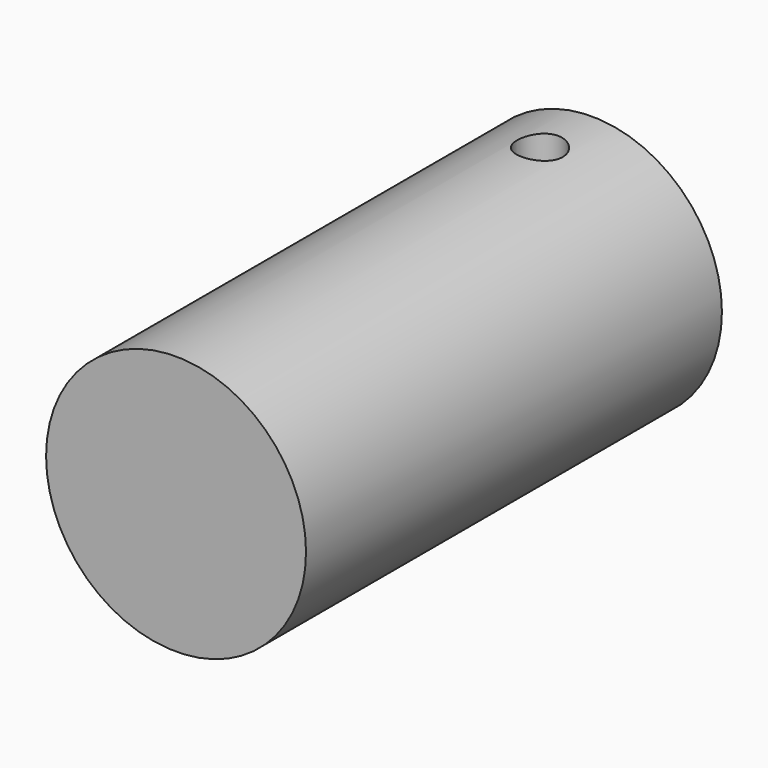
from build123d import *

# Parameters (mm, degrees)
F0_R     = 50
F1_DEPTH = 100
F6_D     = 17.5


with BuildPart() as f1:
    # F0 (on Front) → F1 (new body, symmetric)
    with BuildSketch(Plane.XZ):
        with Locations((135.255664587, 19.5239204913)):
            Circle(F0_R)
    extrude(amount=F1_DEPTH, both=True)

    # F6 (through all)
    with Locations(Plane.XY.offset(69.5239204913)):
        with Locations((135.255664587, 75)):
            Hole(F6_D / 2)


solid = f1.part
